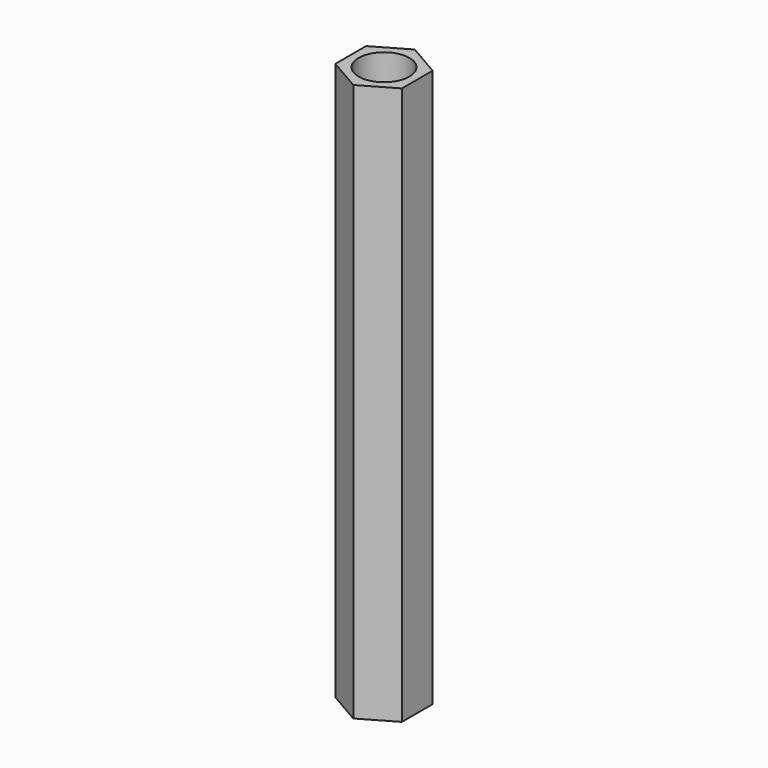
from build123d import *

# Parameters (mm, degrees)
F0_R     = 2.3114
F1_DEPTH = 50.8


with BuildPart() as f1:
    # F0 (on Top) → F1 (new body)
    with BuildSketch(Plane.XY):
        Polygon((3.031089, 1.75), (0, 3.5), (-3.031089, 1.75), (-3.031089, -1.75), (0, -3.5), (3.031089, -1.75), align=None)
        Circle(F0_R, mode=Mode.SUBTRACT)
    extrude(amount=F1_DEPTH)


with BuildPart() as f1_1:
    # F2: moved
    add(f1.part.moved(Location((0, 0, -25.4))))


solid = f1_1.part
